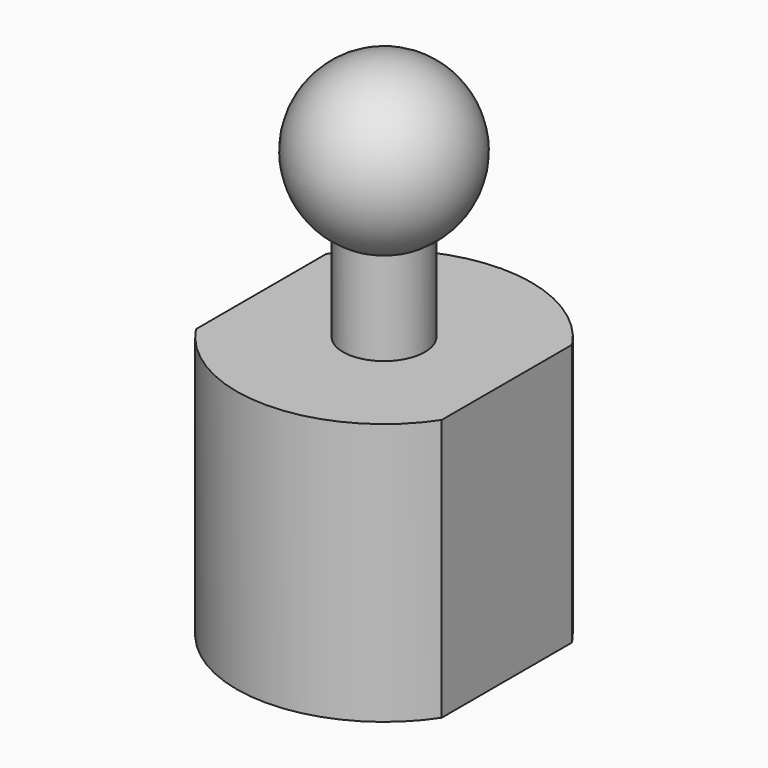
from build123d import *

# Parameters (mm, degrees)
F1_DEPTH = 16
F5_R     = 2.5
F6_DEPTH = 10
F7_R     = 5
F8_DEPTH = 10


with BuildPart() as f1:
    # F0 (on Top) → F1 (new body)
    with BuildSketch(Plane.XY):
        with BuildLine():
            Line((-7.5, 4.974937), (-7.5, -4.974937))
            ThreePointArc((-7.5, -4.974937), (0, -9), (7.5, -4.974937))
            Line((7.5, -4.974937), (7.5, 4.974937))
            ThreePointArc((7.5, 4.974937), (0, 9), (-7.5, 4.974937))
        make_face()
    extrude(amount=F1_DEPTH)



with BuildPart() as f4:
    # F3 (on offset) → F4 (revolve)
    with BuildSketch(Plane.XY.offset(26)):
        with BuildLine():
            Line((0, -5), (0, 5))
            ThreePointArc((0, 5), (-5, 0), (0, -5))
        make_face()
    revolve(axis=Axis((0, 0, 26), (0, -1, 0)))


with BuildPart() as f1_1:
    add(f1.part)

    add(f4.part)  # F6 merges F4
    # F5 (on face) → F6 (join)
    with BuildSketch(Plane.XY.offset(16)):
        Circle(F5_R)
    extrude(amount=F6_DEPTH)

    # F7 (on face) → F8 (cut)
    with BuildSketch(Plane(origin=(0, 0, 0), x_dir=(1, 0, 0), z_dir=(0, 0, -1))):
        Circle(F7_R)
    extrude(amount=-F8_DEPTH, mode=Mode.SUBTRACT)


solid = f1_1.part
